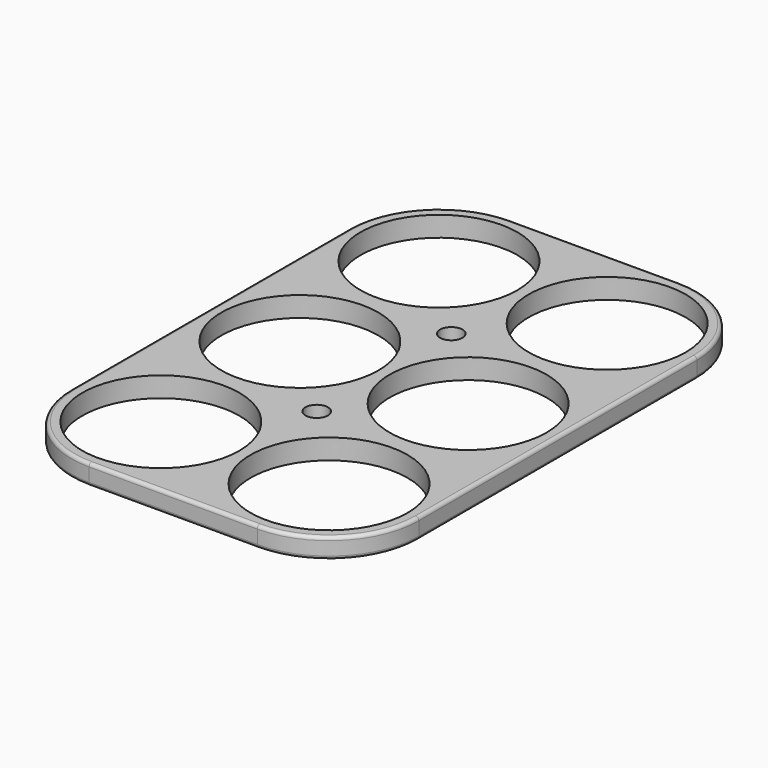
from build123d import *

# Parameters (mm, degrees)
F0_R     = 35
F0_R_2   = 5
F1_DEPTH = 9
F2_R     = 1.5


with BuildPart() as f1:
    # F0 (on Top) → F1 (new body)
    with BuildSketch(Plane.XY):
        with BuildLine():
            ThreePointArc((0, 40), (11.715729, 11.715729), (40, 0))
            Line((40, 0), (115, 0))
            ThreePointArc((115, 0), (143.284271, 11.715729), (155, 40))
            Line((155, 40), (155, 195))
            ThreePointArc((155, 195), (143.284271, 223.284271), (115, 235))
            Line((115, 235), (40, 235))
            ThreePointArc((40, 235), (11.715729, 223.284271), (0, 195))
            Line((0, 195), (0, 40))
        make_face()
        with Locations((40, 40)):
            Circle(F0_R, mode=Mode.SUBTRACT)
        with Locations((115, 40)):
            Circle(F0_R, mode=Mode.SUBTRACT)
        with Locations((77.5, 80)):
            Circle(F0_R_2, mode=Mode.SUBTRACT)
        with Locations((40, 117.5)):
            Circle(F0_R, mode=Mode.SUBTRACT)
        with Locations((40, 195)):
            Circle(F0_R, mode=Mode.SUBTRACT)
        with Locations((115, 117.5)):
            Circle(F0_R, mode=Mode.SUBTRACT)
        with Locations((77.5, 155)):
            Circle(F0_R_2, mode=Mode.SUBTRACT)
        with Locations((115, 195)):
            Circle(F0_R, mode=Mode.SUBTRACT)
    extrude(amount=F1_DEPTH)

    # F2
    f2_edges = [f1.edges().sort_by_distance(p)[0] for p in [
        (0, 117.5, 9),
        (77.5, 0, 0),
    ]]
    fillet(f2_edges, radius=F2_R)


solid = f1.part
